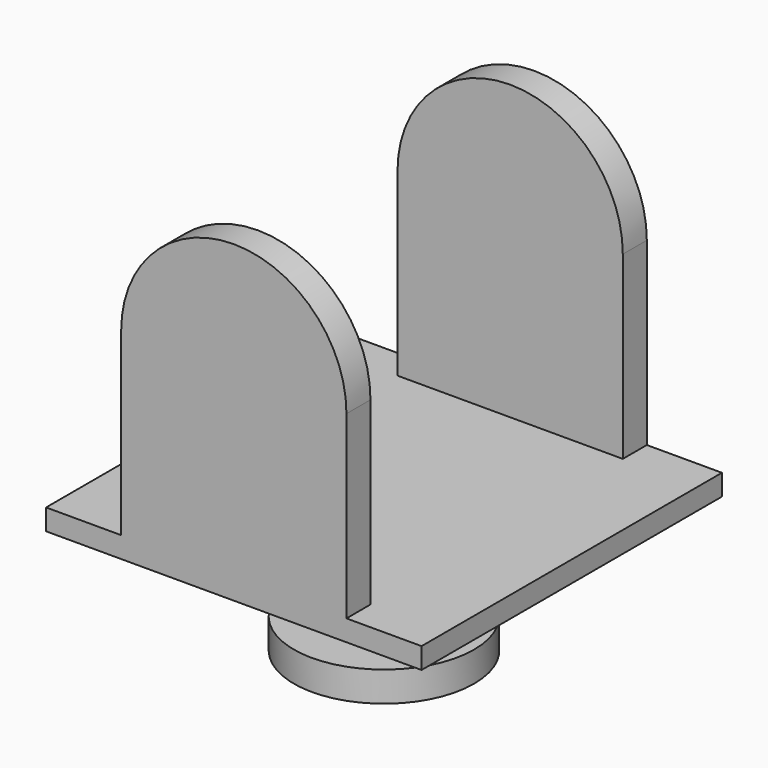
from build123d import *

# Parameters (mm, degrees)
F0_W      = 125
F0_H      = 7
F1_DEPTH  = 105
F2_W      = 75
F2_H      = 60
F3_DEPTH  = 10
F4_W      = 75
F4_H      = 60
F5_DEPTH  = 10
F7_DEPTH  = 30
F8_R      = 30
F9_DEPTH  = 10
F10_R     = 17.5
F11_DEPTH = 5
F12_R     = 10
F13_DEPTH = 5


with BuildPart() as f1:
    # F0 (on Front) → F1 (new body)
    with BuildSketch(Plane.XZ):
        with Locations((1.324901, -12.605666)):
            Rectangle(F0_W, F0_H)
    extrude(amount=F1_DEPTH)

    # F2 (on face) → F3 (join)
    with BuildSketch(Plane.XZ.offset(105)):
        Polygon((-61.175099, -9.105666), (-61.175099, -16.105666), (63.824901, -16.105666), (63.824901, -9.105666), (38.824901, -9.105666), (-36.175099, -9.105666), align=None)
        with Locations((1.324901, 20.894334)):
            Rectangle(F2_W, F2_H)
        with BuildLine():
            ThreePointArc((38.824901, 50.894334), (1.324901, 88.394334), (-36.175099, 50.894334))
            Line((-36.175099, 50.894334), (38.824901, 50.894334))
        make_face()
    extrude(amount=F3_DEPTH)

    # F4 (on face) → F5 (join)
    with BuildSketch(Plane(origin=(0, 0, 0), x_dir=(-1, 0, 0), z_dir=(0, 1, 0))):
        Polygon((-63.824901, -9.105666), (-63.824901, -16.105666), (61.175099, -16.105666), (61.175099, -9.105666), (36.175099, -9.105666), (-38.824901, -9.105666), align=None)
        with Locations((-1.324901, 20.894334)):
            Rectangle(F4_W, F4_H)
        with BuildLine():
            ThreePointArc((36.175099, 50.894334), (-1.324901, 88.394334), (-38.824901, 50.894334))
            Line((-38.824901, 50.894334), (36.175099, 50.894334))
        make_face()
    extrude(amount=F5_DEPTH)

    # F6 (on face) → F7 (join)
    with BuildSketch(Plane(origin=(0, 0, -16.105666), x_dir=(1, 0, 0), z_dir=(0, 0, -1))):
        with BuildLine():
            ThreePointArc((18.824901, 52.5), (13.699269, 64.874369), (1.324901, 70))
            Line((1.324901, 70), (1.324901, 52.5))
            Line((1.324901, 52.5), (18.824901, 52.5))
        make_face()
        with BuildLine():
            Line((1.324901, 52.5), (1.324901, 70))
            ThreePointArc((1.324901, 70), (-11.049468, 64.874369), (-16.175099, 52.5))
            Line((-16.175099, 52.5), (1.324901, 52.5))
        make_face()
        with BuildLine():
            Line((18.824901, 52.5), (1.324901, 52.5))
            Line((1.324901, 52.5), (1.324901, 35))
            ThreePointArc((1.324901, 35), (13.699269, 40.125631), (18.824901, 52.5))
        make_face()
        with BuildLine():
            Line((1.324901, 35), (1.324901, 52.5))
            Line((1.324901, 52.5), (-16.175099, 52.5))
            ThreePointArc((-16.175099, 52.5), (-11.049468, 40.125631), (1.324901, 35))
        make_face()
    extrude(amount=F7_DEPTH)

    # F8 (on face) → F9 (join)
    with BuildSketch(Plane(origin=(0, 0, -46.105666), x_dir=(1, 0, 0), z_dir=(0, 0, -1))):
        with Locations((1.324901, 52.5)):
            Circle(F8_R)
    extrude(amount=F9_DEPTH)

    # F10 (on face) → F11 (cut)
    with BuildSketch(Plane(origin=(0, 0, -56.105666), x_dir=(1, 0, 0), z_dir=(0, 0, -1))):
        with Locations((1.324901, 52.5)):
            Circle(F10_R)
    extrude(amount=-F11_DEPTH, mode=Mode.SUBTRACT)

    # F12 (on face) → F13 (cut)
    with BuildSketch(Plane(origin=(0, 0, -51.105666), x_dir=(1, 0, 0), z_dir=(0, 0, -1))):
        with Locations((1.324901, 52.5)):
            Circle(F12_R)
    extrude(amount=-F13_DEPTH, mode=Mode.SUBTRACT)


solid = f1.part
